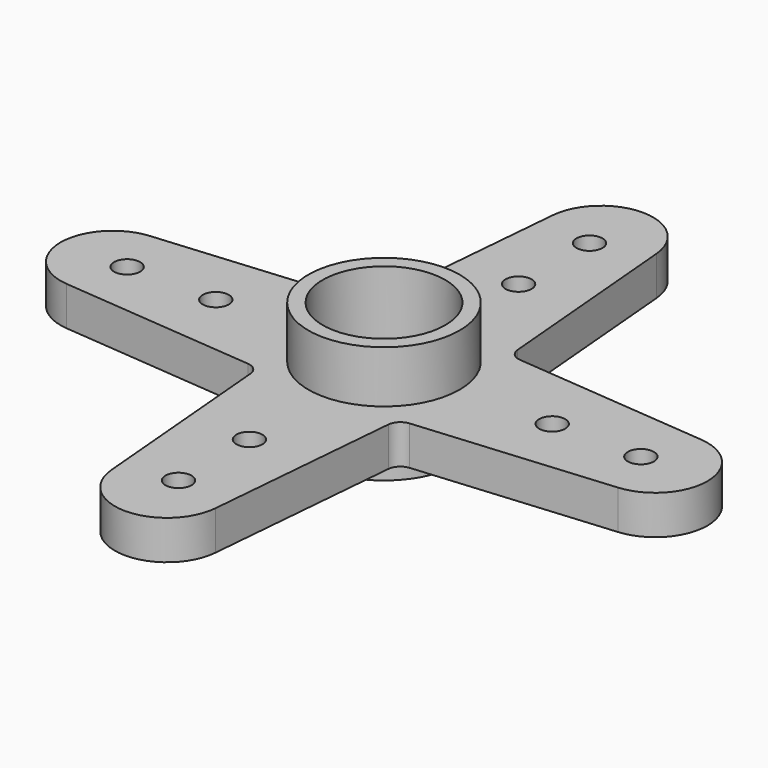
from build123d import *

# Parameters (mm, degrees)
PAD_DEPTH          = 1.5
SKETCH001_R        = 2.9
PAD001_DEPTH       = 2
SKETCH002_R        = 2.35
POCKET_DEPTH       = 2.6
SKETCH003_R        = 0.75
POCKET001_DEPTH    = 0.901
SKETCH004_R        = 2.9
PAD002_DEPTH       = 1
SKETCH005_R        = 2.05
POCKET002_DEPTH    = 1
SKETCH006_R        = 0.5
POCKET003_DEPTH    = 74.221011
POLARPATTERN_COUNT = 4


with BuildPart() as part:
    # Sketch → Pad (new body)
    with BuildSketch(Plane.XY):
        with BuildLine():
            ThreePointArc((-10.573077, 1.992497), (-12.4, 0), (-10.573077, -1.992497))
            Line((-10.573077, -1.992497), (-3.096776, -2.641921))
            ThreePointArc((-2.641921, -3.096776), (-2.786492, -2.786492), (-3.096776, -2.641921))
            Line((-1.992497, -10.573077), (-2.641921, -3.096776))
            ThreePointArc((-1.992497, -10.573077), (0, -12.4), (1.992497, -10.573077))
            Line((2.641921, -3.096776), (1.992497, -10.573077))
            ThreePointArc((3.096776, -2.641921), (2.786492, -2.786492), (2.641921, -3.096776))
            Line((3.096776, -2.641921), (10.573077, -1.992497))
            ThreePointArc((10.573077, -1.992497), (12.4, 0), (10.573077, 1.992497))
            Line((10.573077, 1.992497), (3.096776, 2.641921))
            ThreePointArc((2.641921, 3.096776), (2.786492, 2.786492), (3.096776, 2.641921))
            Line((1.992497, 10.573077), (2.641921, 3.096776))
            ThreePointArc((1.992497, 10.573077), (0, 12.4), (-1.992497, 10.573077))
            Line((-1.992497, 10.573077), (-2.641921, 3.096776))
            ThreePointArc((-3.096776, 2.641921), (-2.786492, 2.786492), (-2.641921, 3.096776))
            Line((-10.573077, 1.992497), (-3.096776, 2.641921))
        make_face()
    extrude(amount=PAD_DEPTH)

    # Sketch001 → Pad001 (new body)
    with BuildSketch(Plane.XY.offset(1.5)):
        Circle(SKETCH001_R)
    extrude(amount=PAD001_DEPTH)

    # Sketch002 → Pocket (cut)
    with BuildSketch(Plane.XY.offset(3.5)):
        Circle(SKETCH002_R)
    extrude(amount=-POCKET_DEPTH, mode=Mode.SUBTRACT)

    # Sketch003 → Pocket001 (cut, through all)
    with BuildSketch(Plane.XY.offset(0.9)):
        Circle(SKETCH003_R)
    extrude(amount=-POCKET001_DEPTH, mode=Mode.SUBTRACT)

    # Sketch004 → Pad002 (new body)
    with BuildSketch(Plane(origin=(0, 0, 0), x_dir=(1, 0, 0), z_dir=(0, 0, -1))):
        Circle(SKETCH004_R)
    extrude(amount=PAD002_DEPTH)

    # Sketch005 → Pocket002 (cut)
    with BuildSketch(Plane(origin=(0, 0, -1), x_dir=(1, 0, 0), z_dir=(0, 0, -1))):
        Circle(SKETCH005_R)
    extrude(amount=-POCKET002_DEPTH, mode=Mode.SUBTRACT)

    # Sketch006 → Pocket003 (cut, through all)
    with BuildSketch(Plane(origin=(0, 0, 0), x_dir=(1, 0, 0), z_dir=(0, 0, -1))):
        with Locations((-6.45, 0)):
            Circle(SKETCH006_R)
        with Locations((-9.85, 0)):
            Circle(SKETCH006_R)
    pocket003 = extrude(amount=-POCKET003_DEPTH, mode=Mode.SUBTRACT)

    # PolarPattern: Pocket003 ×4 about axis
    polarpattern_axis = Axis((0, 0, 0), (0, 0, -1))
    for i in range(1, POLARPATTERN_COUNT):
        add(pocket003.rotate(polarpattern_axis, i * 360 / POLARPATTERN_COUNT), mode=Mode.SUBTRACT)


solid = part.part
